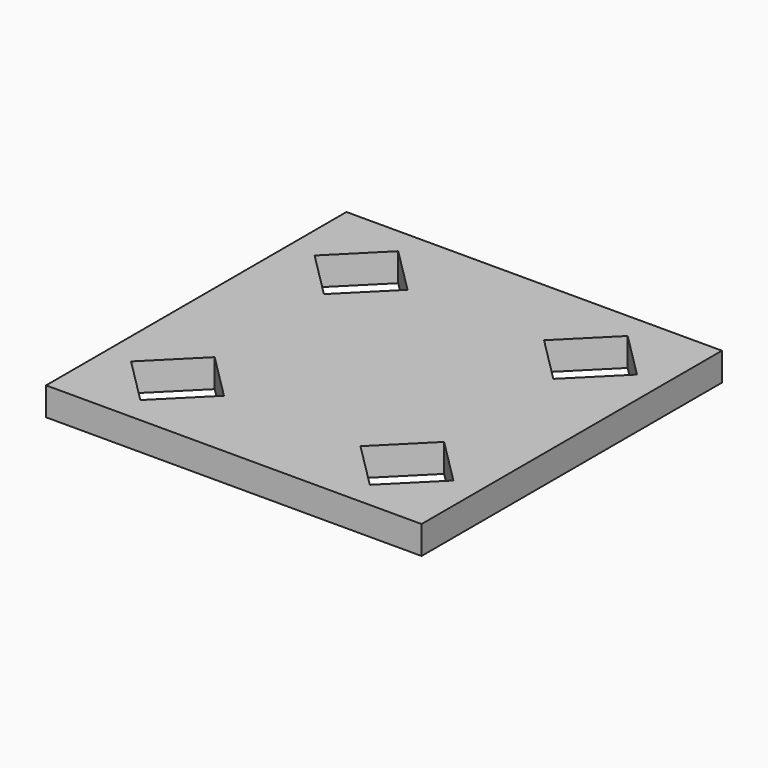
from build123d import *

# Parameters (mm, degrees)
F0_W     = 40
F0_H     = 40
F1_DEPTH = 3


with BuildPart() as f1:
    # F0 (on Top) → F1 (new body)
    with BuildSketch(Plane.XY):
        Rectangle(F0_W, F0_H)
        Polygon((-12.221825, -7.272078), (-7.272078, -12.221825), (-12.221825, -17.171573), (-17.171573, -12.221825), align=None, mode=Mode.SUBTRACT)
        Polygon((7.272078, -12.221825), (12.221825, -7.272078), (17.171573, -12.221825), (12.221825, -17.171573), align=None, mode=Mode.SUBTRACT)
        Polygon((-12.221825, 7.272078), (-17.171573, 12.221825), (-12.221825, 17.171573), (-7.272078, 12.221825), align=None, mode=Mode.SUBTRACT)
        Polygon((12.221825, 7.272078), (7.272078, 12.221825), (12.221825, 17.171573), (17.171573, 12.221825), align=None, mode=Mode.SUBTRACT)
    extrude(amount=F1_DEPTH)


solid = f1.part
